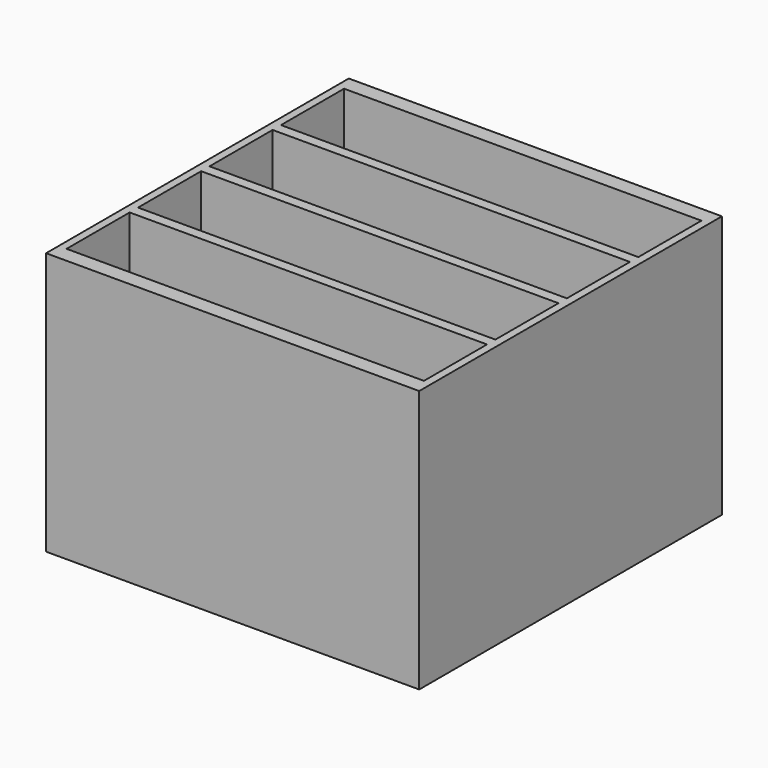
from build123d import *

# Parameters (mm, degrees)
SKETCH_W     = 142
SKETCH_H     = 144
PAD_DEPTH    = 100
SKETCH001_W  = 136
SKETCH001_H  = 30
POCKET_DEPTH = 95


with BuildPart() as part:
    # Sketch → Pad (new body)
    with BuildSketch(Plane.XY):
        with Locations((71, 72)):
            Rectangle(SKETCH_W, SKETCH_H)
    extrude(amount=PAD_DEPTH)

    # Sketch001 (on Face6 of Pad) → Pocket (cut)
    with BuildSketch(Plane.XY.offset(100)):
        with Locations((71, 123)):
            Rectangle(SKETCH001_W, SKETCH001_H)
        with Locations((71, 89)):
            Rectangle(SKETCH001_W, SKETCH001_H)
        with Locations((71, 55)):
            Rectangle(SKETCH001_W, SKETCH001_H)
        with Locations((71, 21)):
            Rectangle(SKETCH001_W, SKETCH001_H)
    extrude(amount=-POCKET_DEPTH, mode=Mode.SUBTRACT)


solid = part.part
